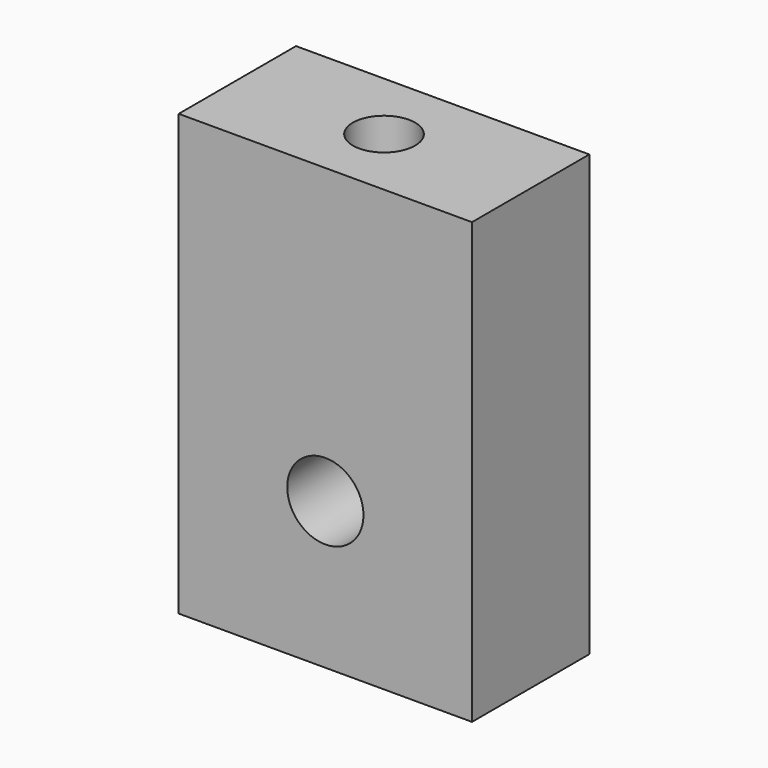
from build123d import *

# Parameters (mm, degrees)
F0_W     = 25.4
F0_H     = 38.1
F1_DEPTH = 12.7
F2_R     = 3.301742
F3_DEPTH = 25.4
F4_R     = 2.696389
F5_DEPTH = 25.4


with BuildPart() as f1:
    # F0 (on Front) → F1 (new body)
    with BuildSketch(Plane.XZ):
        with Locations((3.099383, 0.865355)):
            Rectangle(F0_W, F0_H)
    extrude(amount=F1_DEPTH)

    # F2 (on face) → F3 (cut)
    with BuildSketch(Plane.XZ.offset(12.7)):
        with Locations((3.099383, -5.484645)):
            Circle(F2_R)
    extrude(amount=-F3_DEPTH, mode=Mode.SUBTRACT)

    # F4 (on face) → F5 (cut)
    with BuildSketch(Plane.XY.offset(19.915355)):
        with Locations((3.099383, -6.35)):
            Circle(F4_R)
    extrude(amount=-F5_DEPTH, mode=Mode.SUBTRACT)


solid = f1.part
